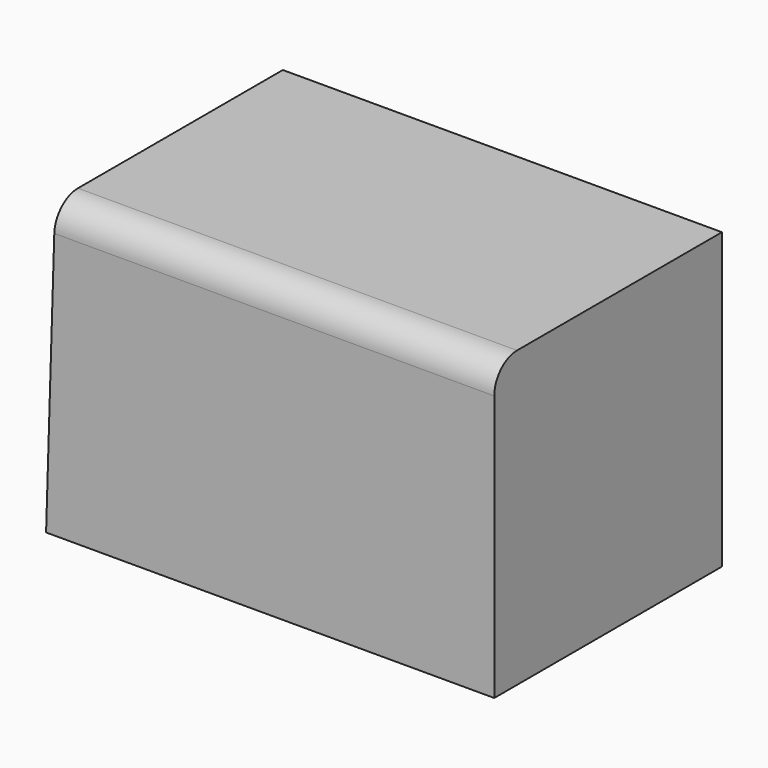
from build123d import *

# Parameters (mm, degrees)
F1_DEPTH = 50.8
F2_R     = 5.08


with BuildPart() as f1:
    # F0 (on Front) → F1 (new body)
    with BuildSketch(Plane.XZ):
        Polygon((-39.542716, 82.958616), (-41.164905, 30.400131), (38.846463, 30.400131), (38.846463, 82.958616), align=None)
    extrude(amount=F1_DEPTH)

    # F2
    f2_edges = [f1.edges().sort_by_distance(p)[0] for p in [
        (-0.348127, -50.8, 82.958616),
    ]]
    fillet(f2_edges, radius=F2_R)


solid = f1.part
